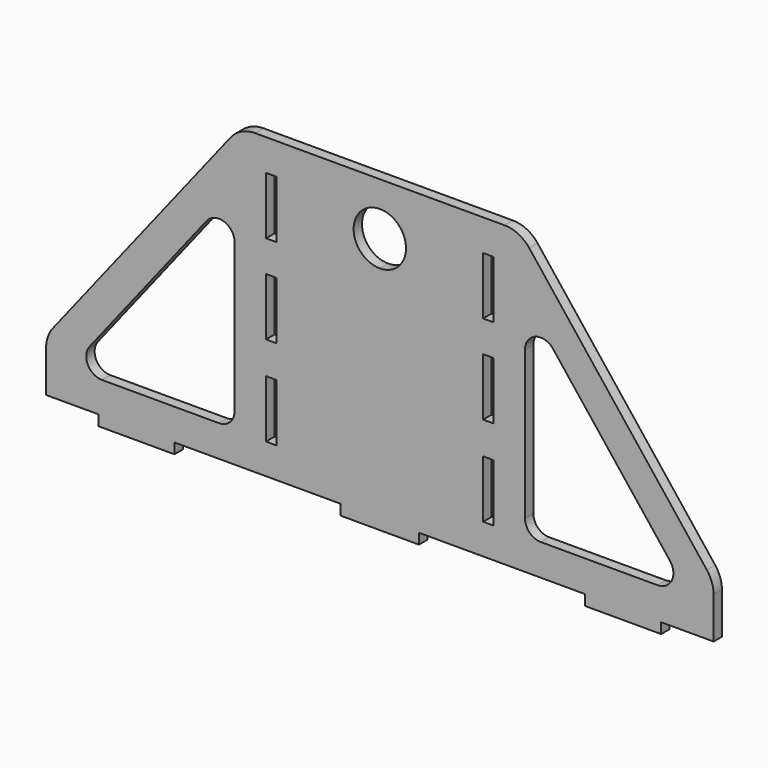
from build123d import *

# Parameters (mm, degrees)
F0_W     = 2
F0_H     = 11
F1_DEPTH = 2


with BuildPart() as f1:
    # F0 (on Front) → F1 (new body)
    with BuildSketch(Plane.XZ):
        with BuildLine():
            Line((0.144111, 35.317095), (-19.580889, 35.317095))
            Line((-19.580889, 35.317095), (-21.580889, 35.317095))
            Line((-21.580889, 35.317095), (-23.668159, 35.317095))
            ThreePointArc((-23.668159, 35.317095), (-26.28845, 34.714694), (-28.382586, 33.028452))
            Line((-28.382586, 33.028452), (-62.295316, -10.04988))
            ThreePointArc((-62.295316, -10.04988), (-63.250393, -11.797385), (-63.580889, -13.761238))
            Line((-63.580889, -13.761238), (-63.580889, -21.682905))
            Line((-63.580889, -21.682905), (-53.580889, -21.682905))
            Line((-53.580889, -21.682905), (-53.580889, -23.682905))
            Line((-53.580889, -23.682905), (-39.080889, -23.682905))
            Line((-39.080889, -23.682905), (-39.080889, -21.682905))
            Line((-39.080889, -21.682905), (-21.580889, -21.682905))
            Line((-21.580889, -21.682905), (-7.330889, -21.682905))
            Line((-7.330889, -21.682905), (-7.330889, -21.849002))
            Line((-7.330889, -21.849002), (-7.330889, -23.682905))
            Line((-7.330889, -23.682905), (0.144111, -23.682905))
            Line((0.144111, -23.682905), (0.144111, 20.317095))
            ThreePointArc((0.144111, 20.317095), (-4.855889, 25.317095), (0.144111, 30.317095))
            Line((0.144111, 30.317095), (0.144111, 35.317095))
        make_face()
        with Locations((-20.580889, -10.349002)):
            Rectangle(F0_W, F0_H, mode=Mode.SUBTRACT)
        with BuildLine():
            Line((-30.580889, -15.682905), (-52.913921, -15.682905))
            ThreePointArc((-52.913921, -15.682905), (-55.612721, -13.993051), (-55.271135, -10.827226))
            Line((-55.271135, -10.827226), (-32.938102, 17.541761))
            ThreePointArc((-32.938102, 17.541761), (-29.598962, 18.520834), (-27.580889, 15.686082))
            Line((-27.580889, 15.686082), (-27.580889, -12.682905))
            ThreePointArc((-27.580889, -12.682905), (-28.459568, -14.804226), (-30.580889, -15.682905))
        make_face(mode=Mode.SUBTRACT)
        with Locations((-20.580889, 6.817095)):
            Rectangle(F0_W, F0_H, mode=Mode.SUBTRACT)
        with Locations((-20.580889, 23.817095)):
            Rectangle(F0_W, F0_H, mode=Mode.SUBTRACT)
        with BuildLine():
            Line((19.869111, 35.317095), (0.144111, 35.317095))
            Line((0.144111, 35.317095), (0.144111, 30.317095))
            ThreePointArc((0.144111, 30.317095), (3.679645, 28.852629), (5.144111, 25.317095))
            ThreePointArc((5.144111, 25.317095), (3.679645, 21.781561), (0.144111, 20.317095))
            Line((0.144111, 20.317095), (0.144111, -23.682905))
            Line((0.144111, -23.682905), (7.619111, -23.682905))
            Line((7.619111, -23.682905), (7.619111, -21.849002))
            Line((7.619111, -21.849002), (7.619111, -21.682905))
            Line((7.619111, -21.682905), (21.869111, -21.682905))
            Line((21.869111, -21.682905), (39.369111, -21.682905))
            Line((39.369111, -21.682905), (39.369111, -23.682905))
            Line((39.369111, -23.682905), (53.869111, -23.682905))
            Line((53.869111, -23.682905), (53.869111, -21.682905))
            Line((53.869111, -21.682905), (63.869111, -21.682905))
            Line((63.869111, -21.682905), (63.869111, -13.761238))
            ThreePointArc((63.869111, -13.761238), (63.538616, -11.797385), (62.583538, -10.04988))
            Line((62.583538, -10.04988), (28.670808, 33.028452))
            ThreePointArc((28.670808, 33.028452), (26.576673, 34.714694), (23.956381, 35.317095))
            Line((23.956381, 35.317095), (21.869111, 35.317095))
            Line((21.869111, 35.317095), (19.869111, 35.317095))
        make_face()
        with Locations((20.869111, -10.349002)):
            Rectangle(F0_W, F0_H, mode=Mode.SUBTRACT)
        with BuildLine():
            Line((53.202144, -15.682905), (30.869111, -15.682905))
            ThreePointArc((30.869111, -15.682905), (28.747791, -14.804226), (27.869111, -12.682905))
            Line((27.869111, -12.682905), (27.869111, 15.686082))
            ThreePointArc((27.869111, 15.686082), (29.887185, 18.520834), (33.226325, 17.541761))
            Line((33.226325, 17.541761), (55.559357, -10.827226))
            ThreePointArc((55.559357, -10.827226), (55.900943, -13.993051), (53.202144, -15.682905))
        make_face(mode=Mode.SUBTRACT)
        with Locations((20.869111, 6.817095)):
            Rectangle(F0_W, F0_H, mode=Mode.SUBTRACT)
        with Locations((20.869111, 23.817095)):
            Rectangle(F0_W, F0_H, mode=Mode.SUBTRACT)
    extrude(amount=F1_DEPTH)


solid = f1.part
